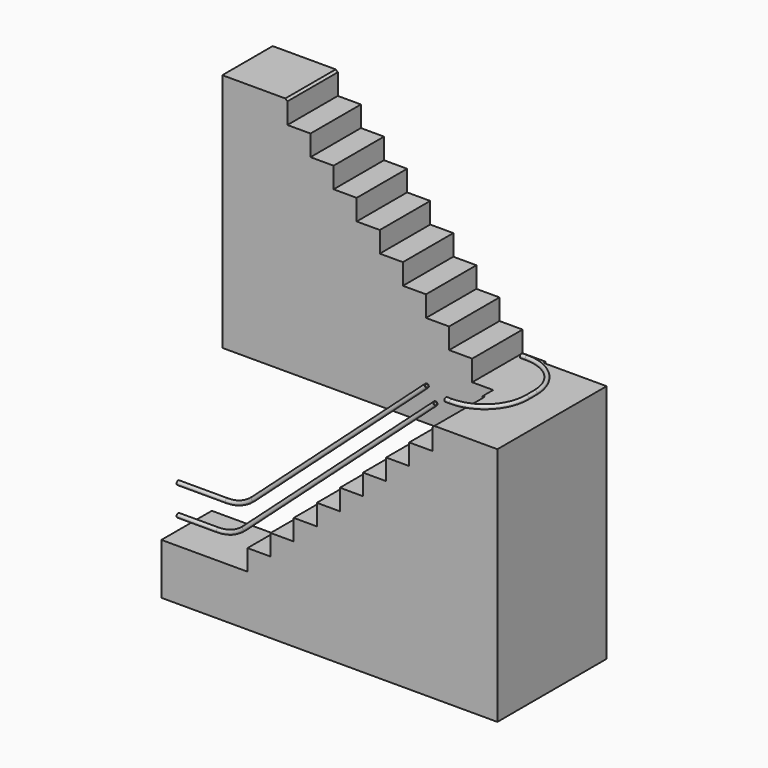
from build123d import *

# Parameters (mm, degrees)
F1_R          = 19
F1_R_2        = 15.5
F4_DEPTH      = 200
F4_DEPTH_BACK = 400
F5_W          = 620
F5_H          = 2286.4576743196
F6_DEPTH      = 700
F9_DEPTH      = 600
F13_R         = 19
F13_R_2       = 15.5


with BuildPart() as f2:
    # F2: sweep along a path in F0
    with BuildLine(Plane.XZ) as f2_path:
        Line((0, 398.5), (415.278026721, 398.5))
        Line((415.278026721, 398.5), (465.278026721, 398.5))
        ThreePointArc((465.278026721, 398.5), (599.6660078005, 423.4073400635), (716.2020041056, 494.820690446))
        Line((716.2020041056, 494.820690446), (803.0773322649, 573.0435872703))
        Line((803.0773322649, 573.0435872703), (2366.7165369061, 1980.9506509519))
    # F1 (on Right) → F2 (sweep)
    with BuildSketch(Plane.YZ):
        with Locations((0, 398.5)):
            Circle(F1_R)
        with Locations((0, 398.5)):
            Circle(F1_R_2, mode=Mode.SUBTRACT)
    sweep(path=f2_path.line)


with BuildPart() as f3:
    # F3: sweep along a path in F0
    with BuildLine(Plane.XZ) as f3_path:
        Line((0, 125), (329.6729280349, 125))
        Line((329.6729280349, 125), (379.6729280349, 125))
        ThreePointArc((379.6729280349, 125), (514.0609091144, 149.9073400635), (630.5969054194, 221.320690446))
        Line((630.5969054194, 221.320690446), (1225.1913421191, 756.6959259674))
        Line((1225.1913421191, 756.6959259674), (2449.5855074597, 1859.1453842547))
    # F1 (on Right) → F3 (sweep)
    with BuildSketch(Plane.YZ):
        with Locations((0, 125)):
            Circle(F1_R)
        with Locations((0, 125)):
            Circle(F1_R_2, mode=Mode.SUBTRACT)
    sweep(path=f3_path.line)


with BuildPart() as f4:
    # F0 (on Front) → F4 (new body, two sides)
    with BuildSketch(Plane.XZ) as f4_sk:
        Polygon((600, 0), (0, 0), (0, -485.6495857239), (3200, -485.6495857239), (3200, 1800.8080885957), (2600, 1800.8080885957), (2580, 1782.8000077097), (2580, 1584.7111179642), (2360, 1584.7111179642), (2360, 1386.6222282187), (2140, 1386.6222282187), (2140, 1188.5333384731), (1920, 1188.5333384731), (1920, 990.4444487276), (1700, 990.4444487276), (1700, 792.3555589821), (1480, 792.3555589821), (1480, 594.2666692366), (1260, 594.2666692366), (1260, 396.177779491), (1040, 396.177779491), (1040, 198.0888897455), (820, 198.0888897455), (820, 0), align=None)
    extrude(amount=F4_DEPTH)
    extrude(f4_sk.sketch, amount=-F4_DEPTH_BACK)

    # F5 (on face) → F6 (join)
    with BuildSketch(Plane(origin=(0, 400, 0), x_dir=(-1, 0, 0), z_dir=(0, 1, 0))):
        with Locations((-2890, 657.5792514359)):
            Rectangle(F5_W, F5_H)
    extrude(amount=F6_DEPTH)

    # F8 (on offset) → F9 (join)
    with BuildSketch(Plane(origin=(0, 1125, 0), x_dir=(-1, 0, 0), z_dir=(0, 1, 0))):
        Polygon((-2380, 1800.8080885957), (-2600, 1800.8080885957), (-2600, 1315.1585028718), (0, 1315.1585028718), (0, 3601.6161771914), (-600, 3601.6161771914), (-620, 3583.6080963054), (-620, 3385.5192065599), (-840, 3385.5192065599), (-840, 3187.4303168144), (-1060, 3187.4303168144), (-1060, 2989.3414270688), (-1280, 2989.3414270688), (-1280, 2791.2525373233), (-1500, 2791.2525373233), (-1500, 2593.1636475778), (-1720, 2593.1636475778), (-1720, 2395.0747578323), (-1940, 2395.0747578323), (-1940, 2196.9858680867), (-2160, 2196.9858680867), (-2160, 1998.8969783412), (-2380, 1998.8969783412), align=None)
    extrude(amount=-F9_DEPTH)


with BuildPart() as f14:
    # F14: sweep along a path in F11
    with BuildLine(Plane.XY.offset(1925.8080885957)) as f14_path:
        Line((2550, 0), (2600, 0))
        ThreePointArc((2600, 0), (2882.8427124746, 117.1572875254), (3000, 400))
        Line((3000, 400), (3000, 500))
        ThreePointArc((3000, 500), (2882.8427124746, 782.8427124746), (2600, 900))
        Line((2600, 900), (2550, 900))
    # F13 (on plane+point) → F14 (sweep)
    with BuildSketch(Plane(origin=(2550, 0, 0), x_dir=(0, -1, 0), z_dir=(-1, 0, 0))):
        with Locations((0, 1925.8080885957)):
            Circle(F13_R)
        with Locations((0, 1925.8080885957)):
            Circle(F13_R_2, mode=Mode.SUBTRACT)
    sweep(path=f14_path.line)


solid = Compound([f2.part, f3.part, f4.part, f14.part])
